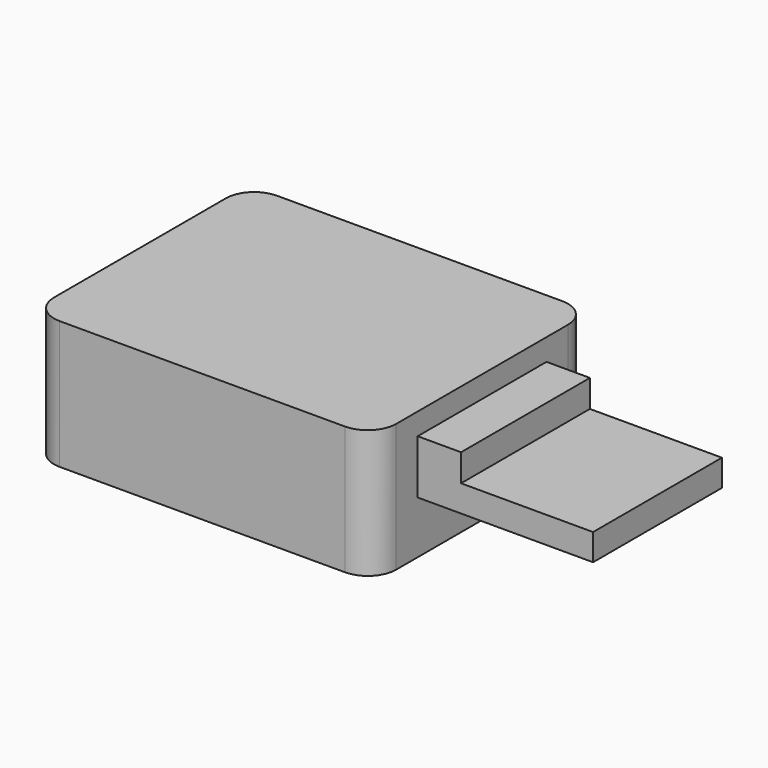
from build123d import *

# Parameters (mm, degrees)
F0_W     = 24.05
F0_H     = 19.09
F1_DEPTH = 9.02
F2_R     = 2
F4_DEPTH = 3.05
F5_W     = 11.32
F5_H     = 1.87
F6_DEPTH = 12.33


with BuildPart() as f1:
    # F0 (on Top) → F1 (new body)
    with BuildSketch(Plane.XY):
        Rectangle(F0_W, F0_H)
    extrude(amount=F1_DEPTH)

    # F2
    f2_edges = [f1.edges().sort_by_distance(p)[0] for p in [
        (12.025, -9.545, 4.51),
        (12.025, 9.545, 4.51),
        (-12.025, 9.545, 4.51),
        (-12.025, -9.545, 4.51),
    ]]
    fillet(f2_edges, radius=F2_R)

    # F3 (on face) → F4 (join)
    with BuildSketch(Plane.YZ.offset(12.025)):
        Polygon((0, 7.49), (-5.66, 7.49), (-5.66, 5.57), (5.66, 5.57), (5.66, 7.49), align=None)
    extrude(amount=F4_DEPTH)

    # F5 (on face) → F6 (join)
    with BuildSketch(Plane.YZ.offset(12.025)):
        with Locations((0, 4.635)):
            Rectangle(F5_W, F5_H)
    extrude(amount=F6_DEPTH)


solid = f1.part
